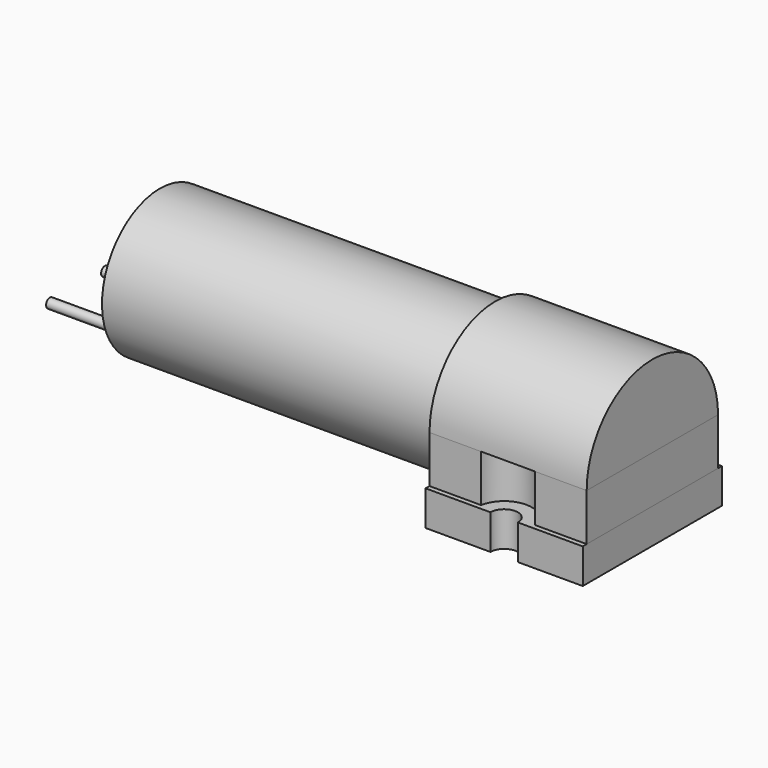
from build123d import *

# Parameters (mm, degrees)
OBJ1          = 1
EXTRUSION6_CUT_DEPTH  = 2.54
OBJ2          = 1
EXTRUSION5_CUT_DEPTH  = 2.54
OBJ3          = 11.43
OBJ4          = 12.65
OBJ5          = 0.76
EXTRUSION4_DEPTH      = 2.54
EXTRUSION7_DEPTH      = 11.43
OBJ6         = 2
EXTRUSION10_CUT_DEPTH = 9.68
OBJ7         = 2
EXTRUSION9_CUT_DEPTH  = 9.68
OBJ8         = 11.43
OBJ9         = 11.94
EXTRUSION8_DEPTH      = 3.43
OBJ10         = 5.267428
EXTRUSION11_DEPTH     = 24.38
OBJ11         = 0.35
EXTRUSION12_DEPTH     = 6


with BuildPart() as extrusion6_cut:
    with BuildSketch(Plane.XY.offset(2.54)):
        with Locations((-0.957956, -5.82738)):
            Circle(OBJ1)
    extrude(amount=-EXTRUSION6_CUT_DEPTH)


with BuildPart() as extrusion5_cut:
    with BuildSketch(Plane.XY.offset(2.54)):
        with Locations((-0.957956, 6.82262)):
            Circle(OBJ2)
    extrude(amount=-EXTRUSION5_CUT_DEPTH)


with BuildPart() as extrusion6:
    with BuildSketch(Plane.XY):
        with Locations((-0.957956, 0.49762)):
            Rectangle(OBJ3, OBJ4)
        with Locations((-0.957956, 0.49762)):
            Circle(OBJ5, mode=Mode.SUBTRACT)
        with Locations((2.222044, 0.49762)):
            Circle(OBJ5, mode=Mode.SUBTRACT)
        with Locations((-4.137956, 0.49762)):
            Circle(OBJ5, mode=Mode.SUBTRACT)
    extrude(amount=EXTRUSION4_DEPTH)

    # Extrusion5: cut Extrusion5_Cut
    add(extrusion5_cut.part, mode=Mode.SUBTRACT)

    # Extrusion6: cut Extrusion6_Cut
    add(extrusion6_cut.part, mode=Mode.SUBTRACT)


with BuildPart() as extrusion6_1:
    # Extrusion6 placement: moved
    add(extrusion6.part.moved(Location((1, -0.5, 0))))


with BuildPart() as extrusion7:
    with BuildSketch(Plane(origin=(-5.672956, -6.32738, 0), x_dir=(0, 0, 1), z_dir=(-1, 0, 0))):
        with BuildLine():
            ThreePointArc((5.97, 0.35738), (11.94, 6.32738), (5.97, 12.29738))
            Line((5.97, 12.29738), (5.97, 0.35738))
        make_face()
    extrude(amount=-EXTRUSION7_DEPTH)


with BuildPart() as extrusion10_cut:
    with BuildSketch(Plane(origin=(-5.672956, -6.32738, 2.54), x_dir=(1, 0, 0), z_dir=(0, 0, 1))):
        with Locations((5.715, 0)):
            Circle(OBJ6)
    extrude(amount=EXTRUSION10_CUT_DEPTH)


with BuildPart() as extrusion9_cut:
    with BuildSketch(Plane(origin=(-5.672956, 6.32262, 2.54), x_dir=(1, 0, 0), z_dir=(0, 0, 1))):
        with Locations((5.715, 0)):
            Circle(OBJ7)
    extrude(amount=EXTRUSION9_CUT_DEPTH)


with BuildPart() as extrusion10:
    with BuildSketch(Plane(origin=(-5.672956, -5.97, 5.97), x_dir=(-1, 0, 0), z_dir=(0, 0, -1))):
        with Locations((-5.715, 5.97)):
            Rectangle(OBJ8, OBJ9)
    extrude(amount=EXTRUSION8_DEPTH)

    # Extrusion9: cut Extrusion9_Cut
    add(extrusion9_cut.part, mode=Mode.SUBTRACT)

    # Extrusion10: cut Extrusion10_Cut
    add(extrusion10_cut.part, mode=Mode.SUBTRACT)


with BuildPart() as extrusion11:
    with BuildSketch(Plane(origin=(-5.672956, -6.32738, 0), x_dir=(0, 0, 1), z_dir=(-1, 0, 0))):
        with Locations((5.97, 6.32738)):
            Circle(OBJ10)
    extrude(amount=EXTRUSION11_DEPTH)


with BuildPart() as extrusion12:
    with BuildSketch(Plane(origin=(-30.052956, 0, 5.97), x_dir=(0, 0, 1), z_dir=(-1, 0, 0))):
        with Locations((-3, 2.5)):
            Circle(OBJ11)
        with Locations((-3, -2.5)):
            Circle(OBJ11)
    extrude(amount=EXTRUSION12_DEPTH)


solid = Compound([extrusion6_1.part, extrusion7.part, extrusion10.part, extrusion11.part, extrusion12.part])
